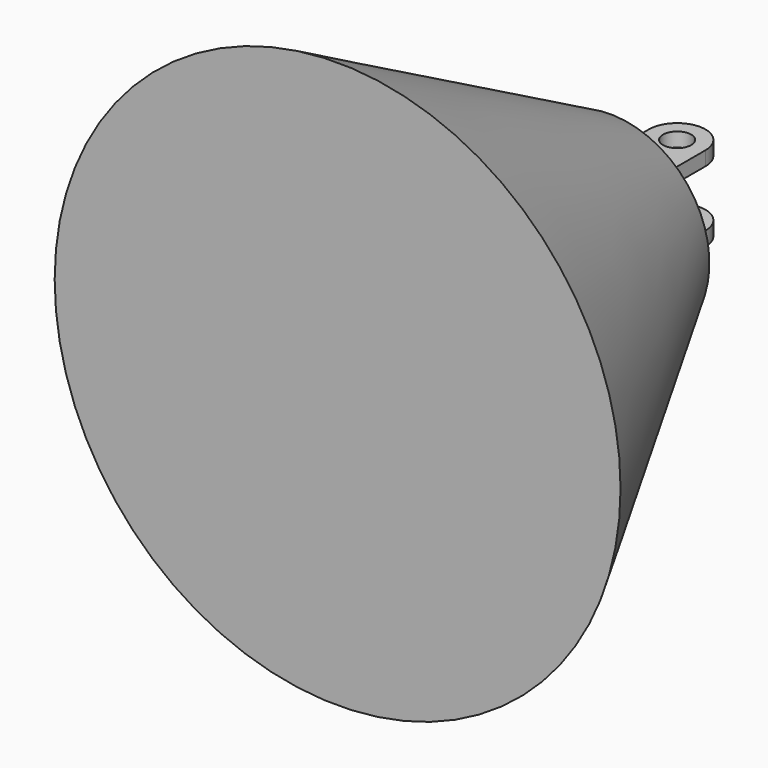
from build123d import *

# Parameters (mm, degrees)
F3_DEPTH = 15
F5_DEPTH = 10


with BuildPart() as f1:
    # F0 (on Top) → F1 (revolve)
    with BuildSketch(Plane.XY):
        Polygon((-100, 0), (0, 0), (0, 120), (-34.996529, 120.492912), align=None)
    revolve(axis=Axis((0, 60, 0), (0, 1, 0)))

    # F2 (on Top) → F3 (join, symmetric)
    with BuildSketch(Plane.XY):
        with BuildLine():
            ThreePointArc((5, 150), (-3.535534, 153.535534), (0, 145))
            ThreePointArc((0, 145), (3.535534, 146.464466), (5, 150))
        make_face()
        with BuildLine():
            Line((-10, 120), (0, 120))
            Line((0, 120), (10, 120))
            Line((10, 120), (10, 150))
            ThreePointArc((10, 150), (0, 160), (-10, 150))
            Line((-10, 150), (-10, 120))
        make_face()
        with BuildLine():
            ThreePointArc((5, 150), (3.535534, 146.464466), (0, 145))
            ThreePointArc((0, 145), (-3.535534, 153.535534), (5, 150))
        make_face(mode=Mode.SUBTRACT)
    extrude(amount=F3_DEPTH, both=True)

    # F4 (on Top) → F5 (cut, symmetric)
    with BuildSketch(Plane.XY):
        with BuildLine():
            ThreePointArc((5, 150), (-3.535534, 153.535534), (0, 145))
            ThreePointArc((0, 145), (3.535534, 146.464466), (5, 150))
        make_face()
        with BuildLine():
            Line((-10, 120), (0, 120))
            Line((0, 120), (10, 120))
            Line((10, 120), (10, 150))
            ThreePointArc((10, 150), (0, 160), (-10, 150))
            Line((-10, 150), (-10, 120))
        make_face()
        with BuildLine():
            ThreePointArc((5, 150), (3.535534, 146.464466), (0, 145))
            ThreePointArc((0, 145), (-3.535534, 153.535534), (5, 150))
        make_face(mode=Mode.SUBTRACT)
    extrude(amount=F5_DEPTH, both=True, mode=Mode.SUBTRACT)


solid = f1.part
